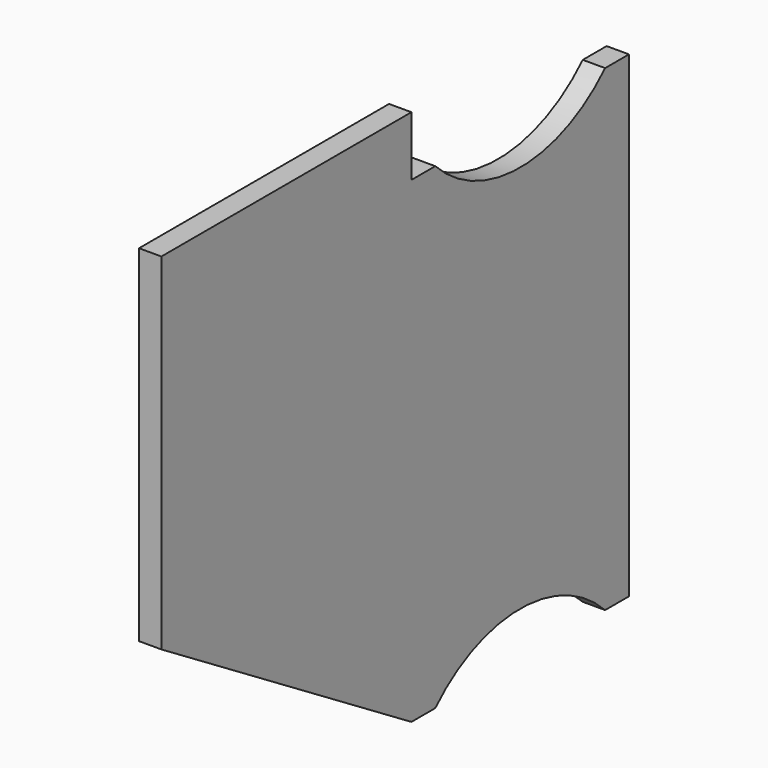
from build123d import *

# Parameters (mm, degrees)
F1_DEPTH = 4.7625


with BuildPart() as f1:
    # F0 (on Right) → F1 (new body)
    with BuildSketch(Plane.YZ):
        with BuildLine():
            Line((118.11, -114.3), (124.46, -114.3))
            Line((124.46, -114.3), (124.46, -12.7))
            Line((124.46, -12.7), (118.11, -12.7))
            ThreePointArc((118.11, -12.7), (95.504, -22.155802), (72.898, -12.7))
            Line((72.898, -12.7), (66.548, -12.7))
            Line((66.548, -12.7), (66.548, 0))
            Line((66.548, 0), (0, 0))
            Line((0, 0), (0, -73.66))
            Line((0, -73.66), (66.548, -114.3))
            Line((66.548, -114.3), (72.898, -114.3))
            ThreePointArc((72.898, -114.3), (95.504, -104.844198), (118.11, -114.3))
        make_face()
    extrude(amount=F1_DEPTH)


solid = f1.part
